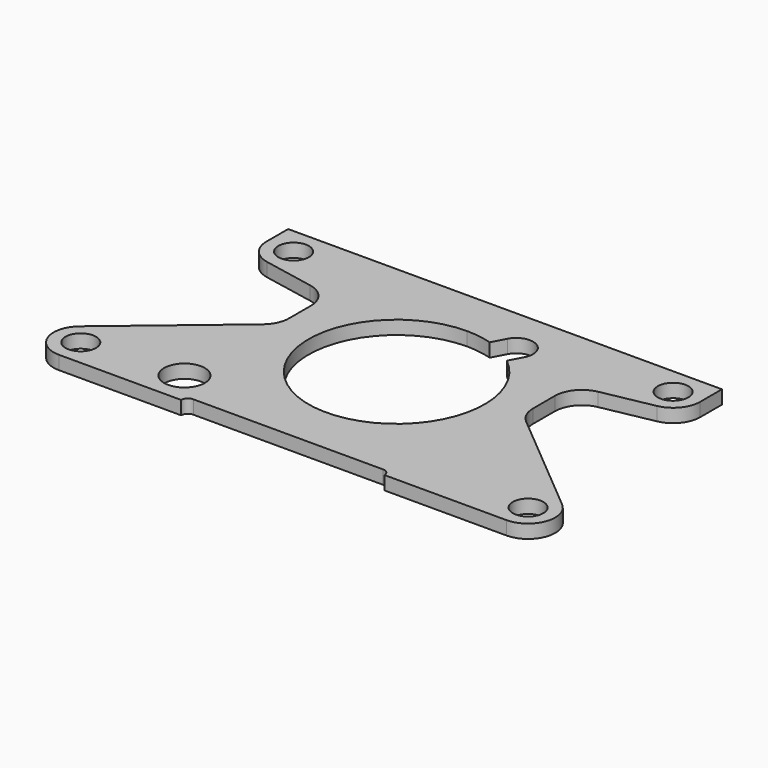
from build123d import *

# Parameters (mm, degrees)
F0_R     = 7.14375
F0_R_2   = 9.525
F1_DEPTH = 6.35


with BuildPart() as f1:
    # F0 (on Top) → F1 (new body)
    with BuildSketch(Plane.XY):
        with BuildLine():
            ThreePointArc((44.45, 3.175), (46.6950640303, 2.2450640303), (47.625, 0))
            Line((47.625, 0), (104.775, 0))
            ThreePointArc((104.775, 0), (116.7044718388, 8.3436596038), (112.9590693035, 22.4113855673))
            ThreePointArc((112.9590693035, 22.4113855673), (112.9384080303, 22.4287599071), (112.9177098724, 22.4460902896))
            Line((112.9177098724, 22.4460902896), (61.6865919697, 65.4341507701))
            ThreePointArc((61.6865919697, 65.4341507701), (58.3398896186, 69.7956619399), (57.15, 75.1629106772))
            Line((57.15, 75.1629106772), (57.15, 77.9154896736))
            Line((57.15, 77.9154896736), (57.15, 87.8966700547))
            ThreePointArc((57.15, 87.8966700547), (60.0503708848, 95.9748672053), (67.4267353078, 100.3633371406))
            Line((67.4267353078, 100.3633371406), (91.3232646922, 105.0083329141))
            ThreePointArc((91.3232646922, 105.0083329141), (98.6996291152, 109.3968028494), (101.6, 117.475))
            Line((101.6, 117.475), (101.6, 130.175))
            Line((101.6, 130.175), (88.9, 130.175))
            Line((88.9, 130.175), (0, 130.175))
            Line((0, 130.175), (-88.9, 130.175))
            Line((-88.9, 130.175), (-101.6, 130.175))
            Line((-101.6, 130.175), (-101.6, 117.475))
            ThreePointArc((-101.6, 117.475), (-98.6996291152, 109.3968028494), (-91.3232646922, 105.0083329141))
            Line((-91.3232646922, 105.0083329141), (-67.4267353078, 100.3633371406))
            ThreePointArc((-67.4267353078, 100.3633371406), (-60.0503708848, 95.9748672053), (-57.15, 87.8966700547))
            Line((-57.15, 87.8966700547), (-57.15, 77.9154896736))
            Line((-57.15, 77.9154896736), (-57.15, 75.1629106772))
            ThreePointArc((-57.15, 75.1629106772), (-58.3398896186, 69.7956619399), (-61.6865919697, 65.4341507701))
            Line((-61.6865919697, 65.4341507701), (-112.9177098724, 22.4460902896))
            Line((-112.9177098724, 22.4460902896), (-112.9590693035, 22.4113855673))
            ThreePointArc((-112.9590693035, 22.4113855673), (-116.7044718388, 8.3436596038), (-104.775, 0))
            Line((-104.775, 0), (-57.15, 0))
            Line((-57.15, 0), (-47.625, 0))
            ThreePointArc((-47.625, 0), (-46.6950640303, 2.2450640303), (-44.45, 3.175))
            Line((-44.45, 3.175), (0, 3.175))
            Line((0, 3.175), (44.45, 3.175))
        make_face()
        with Locations((-104.775, 12.7)):
            Circle(F0_R, mode=Mode.SUBTRACT)
        with Locations((-58.7375, 15.875)):
            Circle(F0_R_2, mode=Mode.SUBTRACT)
        with Locations((104.775, 12.7)):
            Circle(F0_R, mode=Mode.SUBTRACT)
        with Locations((-88.9, 117.475)):
            Circle(F0_R, mode=Mode.SUBTRACT)
        with BuildLine():
            ThreePointArc((26.0241491506, 98.7119987044), (38.8969969697, 52.8674204968), (0, 25.4))
            ThreePointArc((0, 25.4), (-41.275, 66.675), (0, 107.95))
            ThreePointArc((0, 107.95), (6.0696648695, 107.5012757715), (12.007356114, 106.1648597636))
            Line((12.007356114, 106.1648597636), (15.3501866594, 112.4518096395))
            ThreePointArc((15.3501866594, 112.4518096395), (26.0850137073, 115.7337756282), (29.366979696, 104.9989485803))
            Line((29.366979696, 104.9989485803), (26.0241491506, 98.7119987044))
        make_face(mode=Mode.SUBTRACT)
        with Locations((88.9, 117.475)):
            Circle(F0_R, mode=Mode.SUBTRACT)
    extrude(amount=F1_DEPTH)


solid = f1.part
